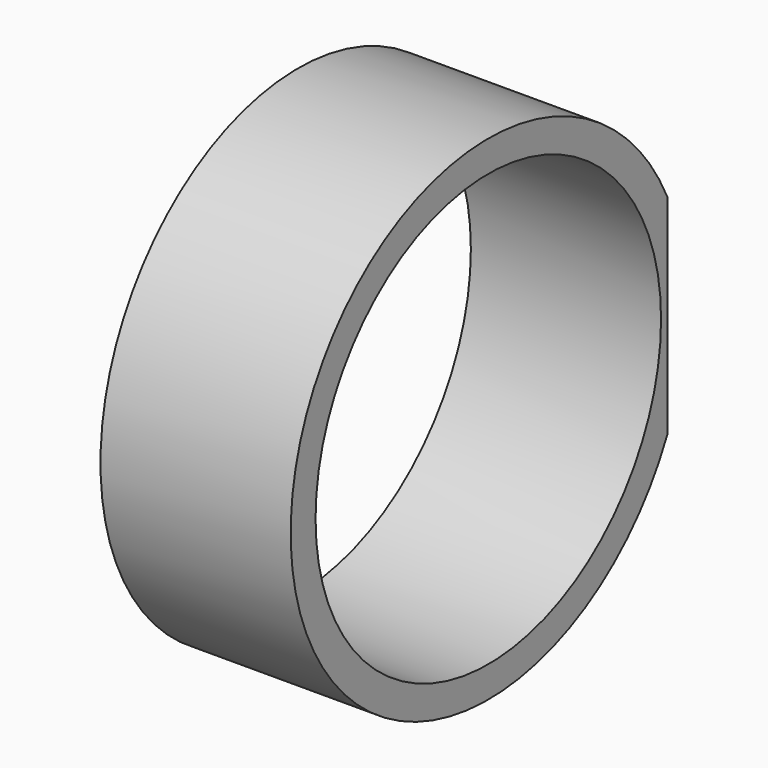
from build123d import *

# Parameters (mm, degrees)
SKETCH006_R  = 19.3
PAD006_DEPTH = 17


with BuildPart() as part:
    # Sketch006 → Pad006 (new body)
    with BuildSketch(Plane(origin=(7, 0, 0), x_dir=(0, -1, 0), z_dir=(-1, 0, 0))):
        with BuildLine():
            ThreePointArc((-20, -9.355554), (22.08, 0), (-20, 9.355554))
            Line((-20, 9.355554), (-20, -9.355554))
        make_face()
        Circle(SKETCH006_R, mode=Mode.SUBTRACT)
    extrude(amount=PAD006_DEPTH)


solid = part.part
